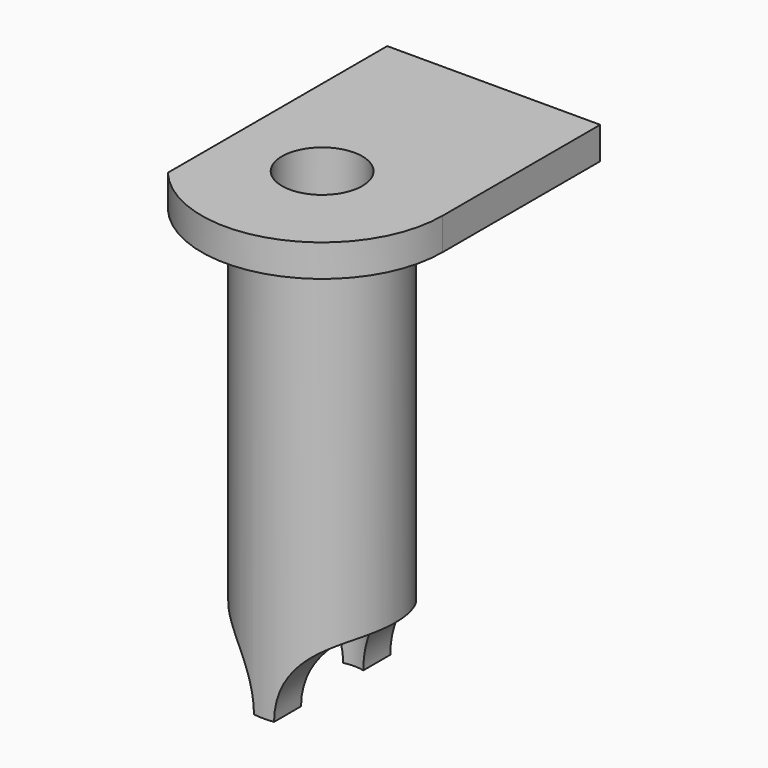
from build123d import *

# Parameters (mm, degrees)
F1_DEPTH      = 1.6
F2_R          = 3.65
F3_DEPTH      = 20.9
F4_R          = 4
F5_DEPTH      = 25
F5_DEPTH_BACK = 25
F6_R          = 2
F7_DEPTH      = 22.5010001


with BuildPart() as f1:
    # F0 (on Top) → F1 (new body)
    with BuildSketch(Plane.XY):
        with BuildLine():
            Line((-4.6, 9.8), (-4.6, -3.8522720569))
            ThreePointArc((-4.6, -3.8522720569), (2.0493901532, -5.6391488719), (6, 0))
            Line((6, 0), (6, 9.8))
            Line((6, 9.8), (-4.6, 9.8))
        make_face()
    extrude(amount=F1_DEPTH)

    # F2 (on face) → F3 (join)
    with BuildSketch(Plane(origin=(0, 0, 0), x_dir=(1, 0, 0), z_dir=(0, 0, -1))):
        Circle(F2_R)
    extrude(amount=F3_DEPTH)

    # F4 (on Front) → F5 (cut, two sides)
    with BuildSketch(Plane.XZ) as f5_sk:
        with Locations((4.5, -20.9)):
            Circle(F4_R)
        with Locations((-4.5, -20.9)):
            Circle(F4_R)
    extrude(amount=-F5_DEPTH, mode=Mode.SUBTRACT)
    extrude(f5_sk.sketch, amount=F5_DEPTH_BACK, mode=Mode.SUBTRACT)

    # F6 (on face) → F7 (cut, through all)
    with BuildSketch(Plane.XY.offset(1.6)):
        Circle(F6_R)
    extrude(amount=-F7_DEPTH, mode=Mode.SUBTRACT)


solid = f1.part
